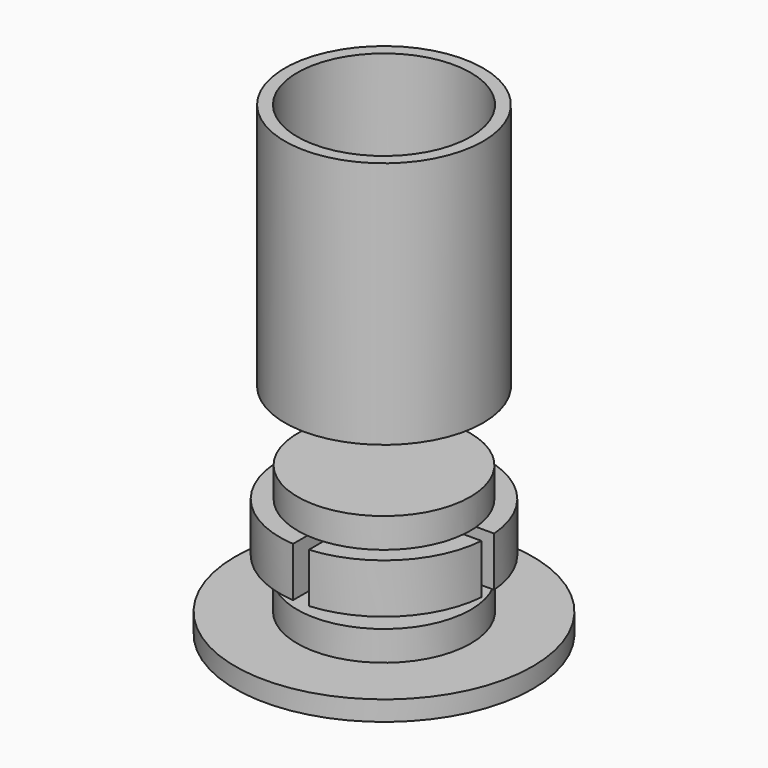
from build123d import *

# Parameters (mm, degrees)
F0_R      = 10
F0_R_2    = 8.75
F1_DEPTH  = 25
F3_R      = 8.7
F4_DEPTH  = 3
F6_DEPTH  = 5
F8_R      = 8.75
F9_DEPTH  = 3
F8_R_2    = 15
F10_DEPTH = 2


with BuildPart() as f1:
    # F0 (on Top) → F1 (new body)
    with BuildSketch(Plane.XY):
        Circle(F0_R)
        Circle(F0_R_2, mode=Mode.SUBTRACT)
    extrude(amount=F1_DEPTH)


with BuildPart() as f4:
    # F3 (on offset) → F4 (new body)
    with BuildSketch(Plane(origin=(0, 0, -10), x_dir=(1, 0, 0), z_dir=(0, 0, -1))):
        Circle(F3_R)
    extrude(amount=-F4_DEPTH)

    # F5 (on offset) → F6 (join)
    with BuildSketch(Plane(origin=(0, 0, -10), x_dir=(1, 0, 0), z_dir=(0, 0, -1))):
        with BuildLine():
            Line((-0.8, 0.8), (-0.8, 10.4694794522))
            ThreePointArc((-0.8, 10.4694794522), (-7.4246212025, 7.4246212025), (-10.4694794522, 0.8))
            Line((-10.4694794522, 0.8), (-0.8, 0.8))
        make_face()
        with BuildLine():
            Line((0.8, 0.8), (10.4694794522, 0.8))
            ThreePointArc((10.4694794522, 0.8), (7.4246212025, 7.4246212025), (0.8, 10.4694794522))
            Line((0.8, 10.4694794522), (0.8, 0.8))
        make_face()
        with BuildLine():
            ThreePointArc((-10.4694794522, -0.8), (-7.4246212025, -7.4246212025), (-0.8, -10.4694794522))
            Line((-0.8, -10.4694794522), (-0.8, -0.8))
            Line((-0.8, -0.8), (-10.4694794522, -0.8))
        make_face()
        with BuildLine():
            ThreePointArc((0.8, -10.4694794522), (7.4246212025, -7.4246212025), (10.4694794522, -0.8))
            Line((10.4694794522, -0.8), (0.8, -0.8))
            Line((0.8, -0.8), (0.8, -10.4694794522))
        make_face()
    extrude(amount=F6_DEPTH)


with BuildPart() as f9:
    # F8 (on offset) → F9 (new body)
    with BuildSketch(Plane.XY.offset(-20)):
        Circle(F8_R)
    extrude(amount=F9_DEPTH)

    # F8 (on offset) → F10 (join)
    with BuildSketch(Plane.XY.offset(-20)):
        Circle(F8_R_2)
        Circle(F8_R, mode=Mode.SUBTRACT)
        Circle(F8_R)
    extrude(amount=-F10_DEPTH)


solid = Compound([f1.part, f4.part, f9.part])
